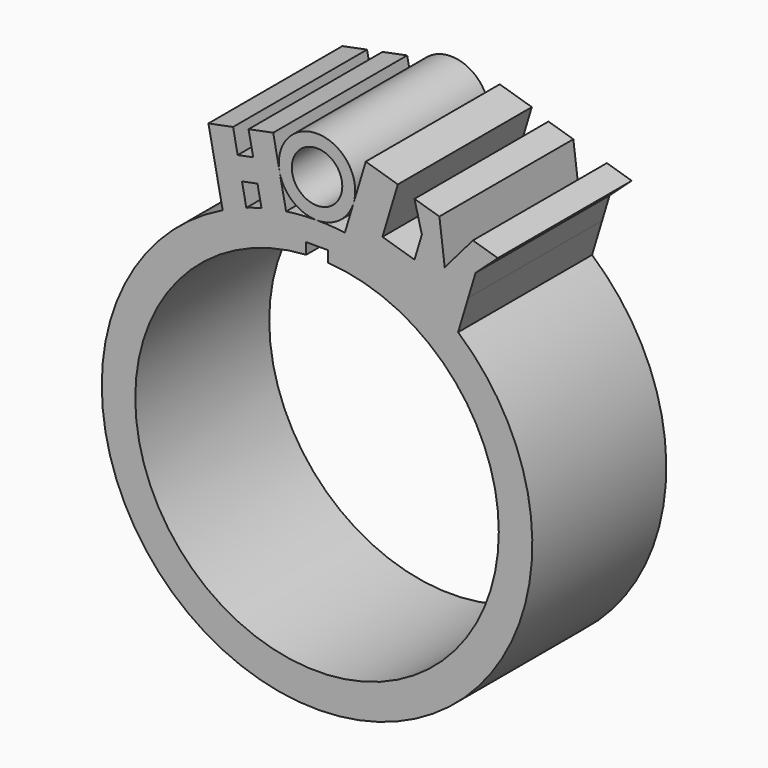
from build123d import *

# Parameters (mm, degrees)
F0_R     = 3.829994
F1_DEPTH = 25.4


with BuildPart() as f1:
    # F0 (on Front) → F1 (new body)
    with BuildSketch(Plane.XZ):
        with BuildLine():
            Line((19.342009, 26.308529), (17.774923, 27.39168))
            ThreePointArc((17.774923, 27.39168), (15.908861, 28.515963), (13.971985, 29.513313))
            ThreePointArc((13.971985, 29.513313), (9.210292, 31.327664), (4.224307, 32.379117))
            ThreePointArc((4.224307, 32.379117), (2.116605, 32.584843), (0, 32.653515))
            ThreePointArc((0, 32.653515), (-2.351834, 32.56871), (-4.691452, 32.314738))
            ThreePointArc((-4.691452, 32.314738), (-6.56874, 31.985992), (-8.423651, 31.548282))
            ThreePointArc((-8.423651, 31.548282), (-9.581498, 31.216132), (-10.726306, 30.841504))
            ThreePointArc((-10.726306, 30.841504), (-12.542609, 30.148548), (-14.314458, 29.348736))
            ThreePointArc((-14.314458, 29.348736), (-4.244734, -32.376446), (21.396208, 24.666867))
            ThreePointArc((21.396208, 24.666867), (20.385641, 25.508384), (19.342009, 26.308529))
        make_face()
        with BuildLine():
            ThreePointArc((1.640325, 27.521376), (20.06665, 18.906251), (27.570216, 0))
            ThreePointArc((27.570216, 0), (-18.906251, -20.06665), (-1.640325, 27.521376))
            Line((-1.640325, 27.521376), (-1.640325, 29.207798))
            Line((-1.640325, 29.207798), (0, 29.207798))
            Line((0, 29.207798), (1.640325, 29.207798))
            Line((1.640325, 29.207798), (1.640325, 27.521376))
        make_face(mode=Mode.SUBTRACT)
        with BuildLine():
            ThreePointArc((13.971985, 29.513313), (15.908861, 28.515963), (17.774923, 27.39168))
            Line((17.774923, 27.39168), (19.342009, 26.308529))
            ThreePointArc((19.342009, 26.308529), (20.385641, 25.508384), (21.396208, 24.666867))
            Line((21.396208, 24.666867), (22.927608, 29.751918))
            Line((22.927608, 29.751918), (24.043115, 33.455987))
            Line((24.043115, 33.455987), (27.414572, 36.525815))
            Line((27.414572, 36.525815), (23.643536, 37.66149))
            Line((23.643536, 37.66149), (19.365821, 32.674296))
            Line((19.365821, 32.674296), (18.5536, 39.194361))
            Line((18.5536, 39.194361), (14.782563, 40.330036))
            Line((14.782563, 40.330036), (15.898071, 35.908926))
            Line((15.898071, 35.908926), (14.782563, 32.204857))
            Line((14.782563, 32.204857), (13.971985, 29.513313))
        make_face()
        with BuildLine():
            ThreePointArc((4.224307, 32.379117), (9.210292, 31.327664), (13.971985, 29.513313))
            Line((13.971985, 29.513313), (14.782563, 32.204857))
            Line((14.782563, 32.204857), (9.918358, 33.669748))
            Line((9.918358, 33.669748), (12.256888, 41.434896))
            Line((12.256888, 41.434896), (7.392683, 42.899786))
            Line((7.392683, 42.899786), (5.548913, 36.777503))
            Line((5.548913, 36.777503), (4.224307, 32.379117))
        make_face()
        with BuildLine():
            ThreePointArc((-5.68437, 37.321242), (-3.677626, 33.969976), (0, 32.653515))
            ThreePointArc((0, 32.653515), (3.456794, 33.797409), (5.548913, 36.777503))
            ThreePointArc((5.548913, 36.777503), (5.73321, 37.604033), (5.795083, 38.448598))
            ThreePointArc((5.795083, 38.448598), (-0.566389, 44.215937), (-5.68437, 37.321242))
        make_face()
        with Locations((0, 38.448598)):
            Circle(F0_R, mode=Mode.SUBTRACT)
        with BuildLine():
            Line((-16.473673, 40.23596), (-14.314458, 29.348736))
            ThreePointArc((-14.314458, 29.348736), (-12.542609, 30.148548), (-10.726306, 30.841504))
            Line((-10.726306, 30.841504), (-11.381907, 34.147187))
            Line((-11.381907, 34.147187), (-9.031528, 34.613327))
            Line((-9.031528, 34.613327), (-8.423651, 31.548282))
            ThreePointArc((-8.423651, 31.548282), (-6.56874, 31.985992), (-4.691452, 32.314738))
            Line((-4.691452, 32.314738), (-5.68437, 37.321242))
            Line((-5.68437, 37.321242), (-6.648872, 42.184469))
            Line((-6.648872, 42.184469), (-10.386083, 41.443285))
            Line((-10.386083, 41.443285), (-9.687129, 37.919009))
            Line((-9.687129, 37.919009), (-12.037508, 37.452869))
            Line((-12.037508, 37.452869), (-12.736462, 40.977145))
            Line((-12.736462, 40.977145), (-16.473673, 40.23596))
        make_face()
    extrude(amount=F1_DEPTH)


solid = f1.part
